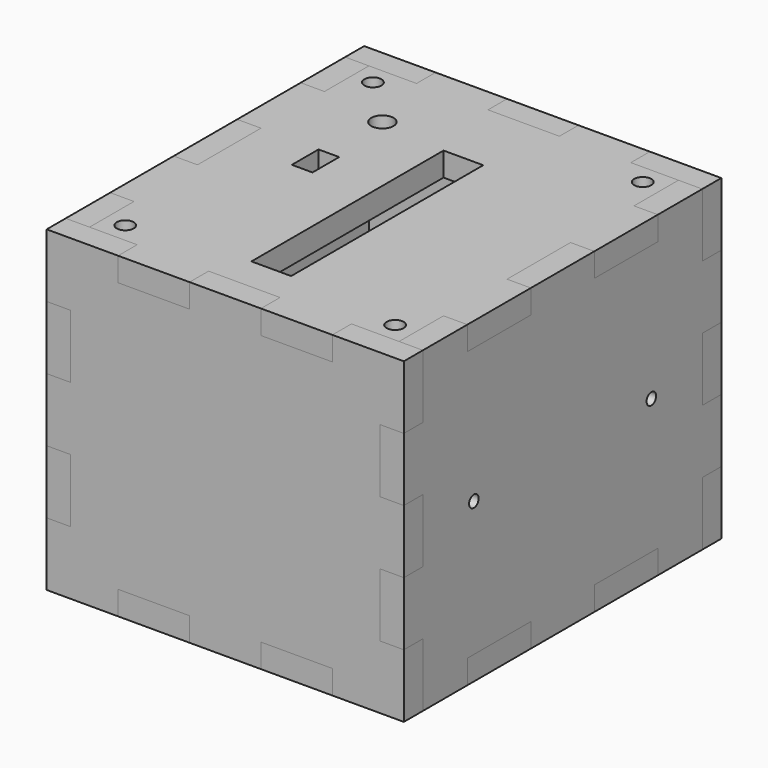
from build123d import *

# Parameters (mm, degrees)
SKETCH_W        = 90
SKETCH_H        = 80
PAD_DEPTH       = 6
SKETCH001_W     = 18
SKETCH001_H     = 6
SKETCH001_W_2   = 6
SKETCH001_H_2   = 16
POCKET_DEPTH    = 6.001
SKETCH002_W     = 90
SKETCH002_H     = 80
PAD001_DEPTH    = 6
SKETCH003_W     = 18
SKETCH003_H     = 6
SKETCH003_W_2   = 6
SKETCH003_H_2   = 16
POCKET001_DEPTH = 6.001
SKETCH004_R     = 5
POCKET002_DEPTH = 6.001
SKETCH005_W     = 100
SKETCH005_H     = 80
PAD002_DEPTH    = 6
SKETCH006_W     = 6
SKETCH006_H     = 16
SKETCH006_W_2   = 20
SKETCH006_H_2   = 6
POCKET003_DEPTH = 6.001
SKETCH008_W     = 100
SKETCH008_H     = 80
PAD003_DEPTH    = 6
SKETCH007_W     = 6
SKETCH007_H     = 16
SKETCH007_W_2   = 20
SKETCH007_H_2   = 6
POCKET004_DEPTH = 6.001
SKETCH009_R     = 1.5
POCKET005_DEPTH = 6.001
SKETCH010_W     = 90
SKETCH010_H     = 100
PAD004_DEPTH    = 6
SKETCH011_R     = 2.15
SKETCH011_W     = 18
SKETCH011_H     = 6
SKETCH011_W_2   = 6
SKETCH011_H_2   = 14
SKETCH011_H_3   = 20
POCKET006_DEPTH = 6.001
SKETCH014_R     = 1.1
POCKET008_DEPTH = 6.001
POCKET009_DEPTH = 6.001
SKETCH013_W     = 90
SKETCH013_H     = 100
PAD005_DEPTH    = 6
SKETCH012_R     = 2.15
SKETCH012_W     = 18
SKETCH012_H     = 6
SKETCH012_W_2   = 6
SKETCH012_H_2   = 14
SKETCH012_H_3   = 20
POCKET007_DEPTH = 6.001
SKETCH016_R     = 2.8
SKETCH016_W     = 5.2
SKETCH016_H     = 8.4
SKETCH016_W_2   = 10
SKETCH016_H_2   = 60.5
POCKET010_DEPTH = 6.001


with BuildPart() as front_part:
    # Sketch → Pad (new body)
    with BuildSketch(Plane.XZ):
        with Locations((45, 40)):
            Rectangle(SKETCH_W, SKETCH_H)
    extrude(amount=-PAD_DEPTH)

    # Sketch001 (on Face5 of Pad) → Pocket (cut, through all)
    with BuildSketch(Plane.XZ):
        with Locations((27, 3)):
            Rectangle(SKETCH001_W, SKETCH001_H)
        with Locations((63, 3)):
            Rectangle(SKETCH001_W, SKETCH001_H)
        with Locations((27, 77)):
            Rectangle(SKETCH001_W, SKETCH001_H)
        with Locations((63, 77)):
            Rectangle(SKETCH001_W, SKETCH001_H)
        with Locations((3, 24)):
            Rectangle(SKETCH001_W_2, SKETCH001_H_2)
        with Locations((3, 56)):
            Rectangle(SKETCH001_W_2, SKETCH001_H_2)
        with Locations((87, 24)):
            Rectangle(SKETCH001_W_2, SKETCH001_H_2)
        with Locations((87, 56)):
            Rectangle(SKETCH001_W_2, SKETCH001_H_2)
    extrude(amount=-POCKET_DEPTH, mode=Mode.SUBTRACT)


with BuildPart() as rear_part:
    # Sketch002 → Pad001 (new body)
    with BuildSketch(Plane.XZ):
        with Locations((45, 40)):
            Rectangle(SKETCH002_W, SKETCH002_H)
    extrude(amount=-PAD001_DEPTH)

    # Sketch003 (on Face5 of Pad001) → Pocket001 (cut, through all)
    with BuildSketch(Plane.XZ):
        with Locations((27, 3)):
            Rectangle(SKETCH003_W, SKETCH003_H)
        with Locations((63, 3)):
            Rectangle(SKETCH003_W, SKETCH003_H)
        with Locations((27, 77)):
            Rectangle(SKETCH003_W, SKETCH003_H)
        with Locations((63, 77)):
            Rectangle(SKETCH003_W, SKETCH003_H)
        with Locations((3, 24)):
            Rectangle(SKETCH003_W_2, SKETCH003_H_2)
        with Locations((3, 56)):
            Rectangle(SKETCH003_W_2, SKETCH003_H_2)
        with Locations((87, 24)):
            Rectangle(SKETCH003_W_2, SKETCH003_H_2)
        with Locations((87, 56)):
            Rectangle(SKETCH003_W_2, SKETCH003_H_2)
    extrude(amount=-POCKET001_DEPTH, mode=Mode.SUBTRACT)

    # Sketch004 (on Face2 of Pocket001) → Pocket002 (cut, through all)
    with BuildSketch(Plane.XZ):
        with Locations((45, 40)):
            Circle(SKETCH004_R)
    extrude(amount=-POCKET002_DEPTH, mode=Mode.SUBTRACT)


with BuildPart() as rear_part_1:
    # Body001 placement: moved
    add(rear_part.part.moved(Location((0, 94, 0))))


with BuildPart() as left_part:
    # Sketch005 → Pad002 (new body)
    with BuildSketch(Plane.YZ):
        with Locations((50, 40)):
            Rectangle(SKETCH005_W, SKETCH005_H)
    extrude(amount=PAD002_DEPTH)

    # Sketch006 (on Face5 of Pad002) → Pocket003 (cut, through all)
    with BuildSketch(Plane(origin=(0, 0, 0), x_dir=(0, 1, 0), z_dir=(-1, 0, 0))):
        with Locations((3, -8)):
            Rectangle(SKETCH006_W, SKETCH006_H)
        with Locations((3, -40)):
            Rectangle(SKETCH006_W, SKETCH006_H)
        with Locations((3, -72)):
            Rectangle(SKETCH006_W, SKETCH006_H)
        with Locations((97, -8)):
            Rectangle(SKETCH006_W, SKETCH006_H)
        with Locations((97, -40)):
            Rectangle(SKETCH006_W, SKETCH006_H)
        with Locations((97, -72)):
            Rectangle(SKETCH006_W, SKETCH006_H)
        with Locations((30, -77)):
            Rectangle(SKETCH006_W_2, SKETCH006_H_2)
        with Locations((70, -77)):
            Rectangle(SKETCH006_W_2, SKETCH006_H_2)
        with Locations((30, -3)):
            Rectangle(SKETCH006_W_2, SKETCH006_H_2)
        with Locations((70, -3)):
            Rectangle(SKETCH006_W_2, SKETCH006_H_2)
    extrude(amount=-POCKET003_DEPTH, mode=Mode.SUBTRACT)


with BuildPart() as right_part:
    # Sketch008 → Pad003 (new body)
    with BuildSketch(Plane.YZ):
        with Locations((50, 40)):
            Rectangle(SKETCH008_W, SKETCH008_H)
    extrude(amount=PAD003_DEPTH)

    # Sketch007 (on Face5 of Pad003) → Pocket004 (cut, through all)
    with BuildSketch(Plane(origin=(0, 0, 0), x_dir=(0, 1, 0), z_dir=(-1, 0, 0))):
        with Locations((3, -8)):
            Rectangle(SKETCH007_W, SKETCH007_H)
        with Locations((3, -40)):
            Rectangle(SKETCH007_W, SKETCH007_H)
        with Locations((3, -72)):
            Rectangle(SKETCH007_W, SKETCH007_H)
        with Locations((97, -8)):
            Rectangle(SKETCH007_W, SKETCH007_H)
        with Locations((97, -40)):
            Rectangle(SKETCH007_W, SKETCH007_H)
        with Locations((97, -72)):
            Rectangle(SKETCH007_W, SKETCH007_H)
        with Locations((30, -77)):
            Rectangle(SKETCH007_W_2, SKETCH007_H_2)
        with Locations((70, -77)):
            Rectangle(SKETCH007_W_2, SKETCH007_H_2)
        with Locations((30, -3)):
            Rectangle(SKETCH007_W_2, SKETCH007_H_2)
        with Locations((70, -3)):
            Rectangle(SKETCH007_W_2, SKETCH007_H_2)
    extrude(amount=-POCKET004_DEPTH, mode=Mode.SUBTRACT)

    # Sketch009 (on Face4 of Pocket004) → Pocket005 (cut, through all)
    with BuildSketch(Plane.YZ.offset(6)):
        with Locations((22.05, 40)):
            Circle(SKETCH009_R)
        with Locations((77.95, 40)):
            Circle(SKETCH009_R)
    extrude(amount=-POCKET005_DEPTH, mode=Mode.SUBTRACT)


with BuildPart() as right_part_1:
    # Body003 placement: moved
    add(right_part.part.moved(Location((84, 0, 0))))


with BuildPart() as bottom_part:
    # Sketch010 → Pad004 (new body)
    with BuildSketch(Plane.XY):
        with Locations((45, 50)):
            Rectangle(SKETCH010_W, SKETCH010_H)
    extrude(amount=PAD004_DEPTH)

    # Sketch011 (on Face5 of Pad004) → Pocket006 (cut, through all)
    with BuildSketch(Plane(origin=(0, 0, 0), x_dir=(1, 0, 0), z_dir=(0, 0, -1))):
        with Locations((11, -11)):
            Circle(SKETCH011_R)
        with Locations((79, -11)):
            Circle(SKETCH011_R)
        with Locations((11, -89)):
            Circle(SKETCH011_R)
        with Locations((79, -89)):
            Circle(SKETCH011_R)
        with Locations((9, -3)):
            Rectangle(SKETCH011_W, SKETCH011_H)
        with Locations((45, -3)):
            Rectangle(SKETCH011_W, SKETCH011_H)
        with Locations((81, -3)):
            Rectangle(SKETCH011_W, SKETCH011_H)
        with Locations((9, -97)):
            Rectangle(SKETCH011_W, SKETCH011_H)
        with Locations((45, -97)):
            Rectangle(SKETCH011_W, SKETCH011_H)
        with Locations((81, -97)):
            Rectangle(SKETCH011_W, SKETCH011_H)
        with Locations((3, -13)):
            Rectangle(SKETCH011_W_2, SKETCH011_H_2)
        with Locations((3, -50)):
            Rectangle(SKETCH011_W_2, SKETCH011_H_3)
        with Locations((3, -87)):
            Rectangle(SKETCH011_W_2, SKETCH011_H_2)
        with Locations((87, -13)):
            Rectangle(SKETCH011_W_2, SKETCH011_H_2)
        with Locations((87, -50)):
            Rectangle(SKETCH011_W_2, SKETCH011_H_3)
        with Locations((87, -87)):
            Rectangle(SKETCH011_W_2, SKETCH011_H_2)
    extrude(amount=-POCKET006_DEPTH, mode=Mode.SUBTRACT)

    # Sketch014 (on Face2 of Pocket006) → Pocket008 (cut, through all)
    with BuildSketch(Plane(origin=(0, 0, 0), x_dir=(1, 0, 0), z_dir=(0, 0, -1))):
        with Locations((50, -70)):
            Circle(SKETCH014_R)
        with Locations((16.98, -70)):
            Circle(SKETCH014_R)
        with Locations((50, -21.74)):
            Circle(SKETCH014_R)
        with Locations((16.98, -21.74)):
            Circle(SKETCH014_R)
    extrude(amount=-POCKET008_DEPTH, mode=Mode.SUBTRACT)

    # Sketch015 (on Face2 of Pocket008) → Pocket009 (cut, through all)
    with BuildSketch(Plane(origin=(0, 0, 0), x_dir=(1, 0, 0), z_dir=(0, 0, -1))):
        Polygon((21.98, -32.24), (21.98, -24.24), (41.98, -24.24), (41.98, -32.24), (35.48, -32.24), (35.48, -34.24), (28.48, -34.24), (28.48, -32.24), align=None)
    extrude(amount=-POCKET009_DEPTH, mode=Mode.SUBTRACT)


with BuildPart() as top_part:
    # Sketch013 → Pad005 (new body)
    with BuildSketch(Plane.XY):
        with Locations((45, 50)):
            Rectangle(SKETCH013_W, SKETCH013_H)
    extrude(amount=PAD005_DEPTH)

    # Sketch012 (on Face5 of Pad005) → Pocket007 (cut, through all)
    with BuildSketch(Plane(origin=(0, 0, 0), x_dir=(1, 0, 0), z_dir=(0, 0, -1))):
        with Locations((11, -11)):
            Circle(SKETCH012_R)
        with Locations((79, -11)):
            Circle(SKETCH012_R)
        with Locations((11, -89)):
            Circle(SKETCH012_R)
        with Locations((79, -89)):
            Circle(SKETCH012_R)
        with Locations((9, -3)):
            Rectangle(SKETCH012_W, SKETCH012_H)
        with Locations((45, -3)):
            Rectangle(SKETCH012_W, SKETCH012_H)
        with Locations((81, -3)):
            Rectangle(SKETCH012_W, SKETCH012_H)
        with Locations((9, -97)):
            Rectangle(SKETCH012_W, SKETCH012_H)
        with Locations((45, -97)):
            Rectangle(SKETCH012_W, SKETCH012_H)
        with Locations((81, -97)):
            Rectangle(SKETCH012_W, SKETCH012_H)
        with Locations((3, -13)):
            Rectangle(SKETCH012_W_2, SKETCH012_H_2)
        with Locations((3, -50)):
            Rectangle(SKETCH012_W_2, SKETCH012_H_3)
        with Locations((3, -87)):
            Rectangle(SKETCH012_W_2, SKETCH012_H_2)
        with Locations((87, -13)):
            Rectangle(SKETCH012_W_2, SKETCH012_H_2)
        with Locations((87, -50)):
            Rectangle(SKETCH012_W_2, SKETCH012_H_3)
        with Locations((87, -87)):
            Rectangle(SKETCH012_W_2, SKETCH012_H_2)
    extrude(amount=-POCKET007_DEPTH, mode=Mode.SUBTRACT)

    # Sketch016 → Pocket010 (cut, through all)
    with BuildSketch(Plane.XY.offset(6)):
        with Locations((23, 77)):
            Circle(SKETCH016_R)
        with Locations((23.1, 55.8)):
            Rectangle(SKETCH016_W, SKETCH016_H)
        with Locations((45, 44.75)):
            Rectangle(SKETCH016_W_2, SKETCH016_H_2)
    extrude(amount=-POCKET010_DEPTH, mode=Mode.SUBTRACT)


with BuildPart() as top_part_1:
    # Body005 placement: moved
    add(top_part.part.moved(Location((0, 0, 74))))


solid = Compound([front_part.part, rear_part_1.part, left_part.part, right_part_1.part, bottom_part.part, top_part_1.part])
